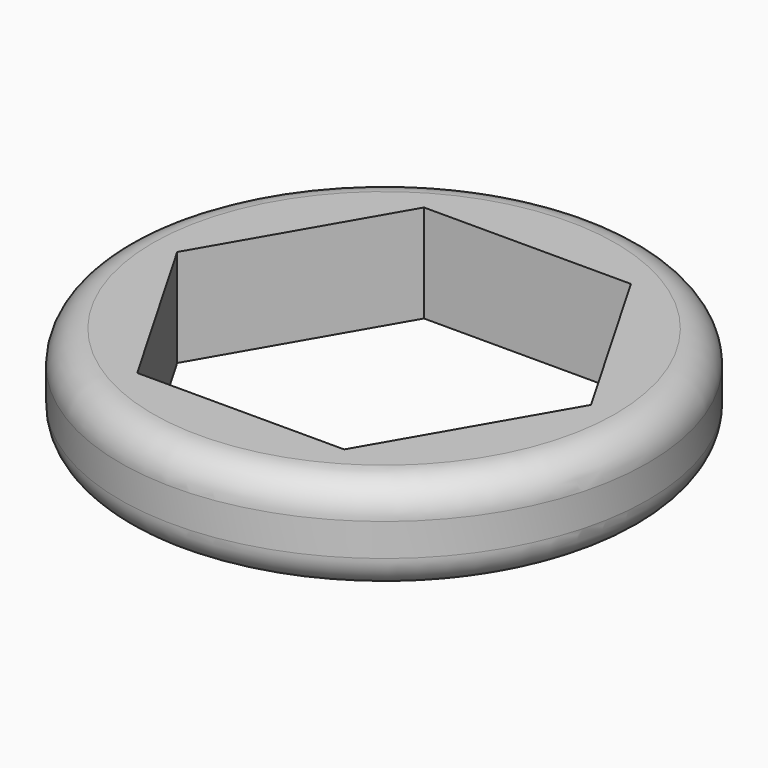
from build123d import *

# Parameters (mm, degrees)
F0_R     = 16.201706
F1_DEPTH = 6
F2_R     = 2


with BuildPart() as f1:
    # F0 (on Top) → F1 (new body)
    with BuildSketch(Plane.XY):
        Circle(F0_R)
        Polygon((-12.701706, 0), (-6.350853, 11), (6.350853, 11), (12.701706, 0), (6.350853, -11), (-6.350853, -11), align=None, mode=Mode.SUBTRACT)
    extrude(amount=F1_DEPTH)

    # F2
    f2_edges = [f1.edges().sort_by_distance(p)[0] for p in [
        (-16.201706, 0, 6),
        (-16.201706, 0, 0),
    ]]
    fillet(f2_edges, radius=F2_R)


solid = f1.part
